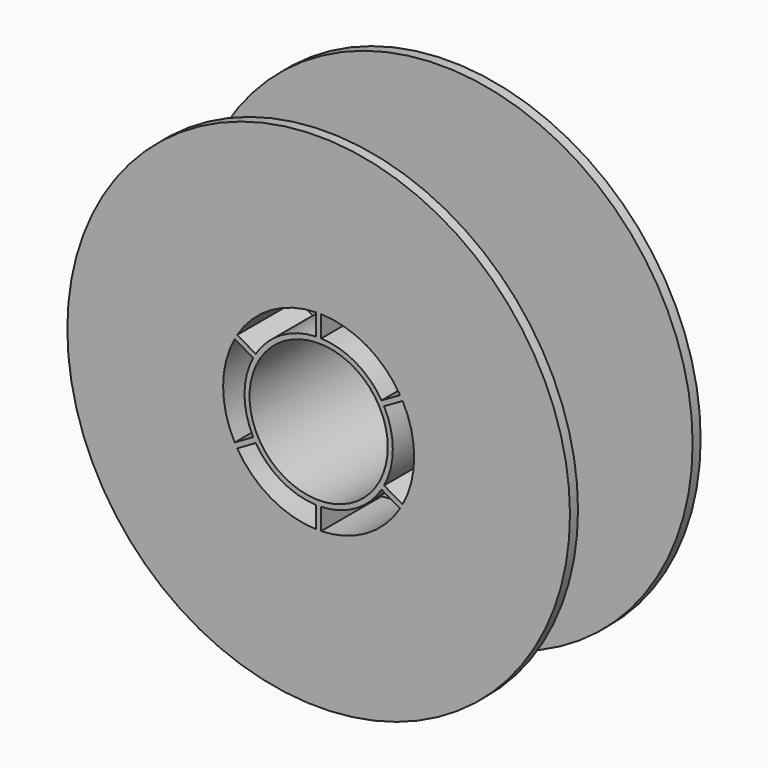
from build123d import *

# Parameters (mm, degrees)
F0_R     = 100
F0_R_2   = 27.5
F1_DEPTH = 4
F2_R     = 40
F2_R_2   = 27.5
F3_DEPTH = 57
F4_R     = 100
F4_R_2   = 27.5
F5_DEPTH = 4
F7_DEPTH = 30
F9_DEPTH = 30


with BuildPart() as f1:
    # F0 (on Front) → F1 (new body)
    with BuildSketch(Plane.XZ):
        Circle(F0_R)
        Circle(F0_R_2, mode=Mode.SUBTRACT)
    extrude(amount=F1_DEPTH)

    # F2 (on face) → F3 (join)
    with BuildSketch(Plane.XZ.offset(4)):
        Circle(F2_R)
        Circle(F2_R_2, mode=Mode.SUBTRACT)
    extrude(amount=F3_DEPTH)

    # F4 (on face) → F5 (join)
    with BuildSketch(Plane.XZ.offset(61)):
        Circle(F4_R)
        Circle(F4_R_2, mode=Mode.SUBTRACT)
    extrude(amount=F5_DEPTH)

    # F6 (on face) → F7 (cut)
    with BuildSketch(Plane(origin=(0, 0, 0), x_dir=(-1, 0, 0), z_dir=(0, 1, 0))):
        with BuildLine():
            ThreePointArc((32.408965, 19.866025), (19.006578, 32.920358), (1, 38))
            Line((1, 38), (1, 29.483046))
            ThreePointArc((1, 29.483046), (14.75, 25.547749), (25.033067, 15.607548))
            Line((25.033067, 15.607548), (32.408965, 19.866025))
        make_face()
        with BuildLine():
            ThreePointArc((-25.033067, 15.607548), (-14.75, 25.547749), (-1, 29.483046))
            Line((-1, 29.483046), (-1, 38))
            ThreePointArc((-1, 38), (-19.006578, 32.920358), (-32.408965, 19.866025))
            Line((-32.408965, 19.866025), (-25.033067, 15.607548))
        make_face()
        with BuildLine():
            ThreePointArc((-26.033067, -13.875498), (-29.5, 0), (-26.033067, 13.875498))
            Line((-26.033067, 13.875498), (-33.408965, 18.133975))
            ThreePointArc((-33.408965, 18.133975), (-38.013156, 0), (-33.408965, -18.133975))
            Line((-33.408965, -18.133975), (-26.033067, -13.875498))
        make_face()
        with BuildLine():
            ThreePointArc((-1, -29.483046), (-14.75, -25.547749), (-25.033067, -15.607548))
            Line((-25.033067, -15.607548), (-32.408965, -19.866025))
            ThreePointArc((-32.408965, -19.866025), (-19.006578, -32.920358), (-1, -38))
            Line((-1, -38), (-1, -29.483046))
        make_face()
        with BuildLine():
            ThreePointArc((25.033067, -15.607548), (14.75, -25.547749), (1, -29.483046))
            Line((1, -29.483046), (1, -38))
            ThreePointArc((1, -38), (19.006578, -32.920358), (32.408965, -19.866025))
            Line((32.408965, -19.866025), (25.033067, -15.607548))
        make_face()
        with BuildLine():
            ThreePointArc((26.033067, 13.875498), (29.5, 0), (26.033067, -13.875498))
            Line((26.033067, -13.875498), (33.408965, -18.133975))
            ThreePointArc((33.408965, -18.133975), (38.013156, 0), (33.408965, 18.133975))
            Line((33.408965, 18.133975), (26.033067, 13.875498))
        make_face()
    extrude(amount=-F7_DEPTH, mode=Mode.SUBTRACT)

    # F8 (on face) → F9 (cut)
    with BuildSketch(Plane.XZ.offset(65)):
        with BuildLine():
            ThreePointArc((32.408965, 19.866025), (19.006578, 32.920358), (1, 38))
            Line((1, 38), (1, 29.483046))
            ThreePointArc((1, 29.483046), (14.75, 25.547749), (25.033067, 15.607548))
            Line((25.033067, 15.607548), (32.408965, 19.866025))
        make_face()
        with BuildLine():
            Line((-32.408965, 19.866025), (-25.033067, 15.607548))
            ThreePointArc((-25.033067, 15.607548), (-14.75, 25.547749), (-1, 29.483046))
            Line((-1, 29.483046), (-1, 38))
            ThreePointArc((-1, 38), (-19.006578, 32.920358), (-32.408965, 19.866025))
        make_face()
        with BuildLine():
            Line((-33.408965, -18.133975), (-26.033067, -13.875498))
            ThreePointArc((-26.033067, -13.875498), (-29.5, 0), (-26.033067, 13.875498))
            Line((-26.033067, 13.875498), (-33.408965, 18.133975))
            ThreePointArc((-33.408965, 18.133975), (-38.013156, 0), (-33.408965, -18.133975))
        make_face()
        with BuildLine():
            Line((-1, -38), (-1, -29.483046))
            ThreePointArc((-1, -29.483046), (-14.75, -25.547749), (-25.033067, -15.607548))
            Line((-25.033067, -15.607548), (-32.408965, -19.866025))
            ThreePointArc((-32.408965, -19.866025), (-19.006578, -32.920358), (-1, -38))
        make_face()
        with BuildLine():
            Line((32.408965, -19.866025), (25.033067, -15.607548))
            ThreePointArc((25.033067, -15.607548), (14.75, -25.547749), (1, -29.483046))
            Line((1, -29.483046), (1, -38))
            ThreePointArc((1, -38), (19.006578, -32.920358), (32.408965, -19.866025))
        make_face()
        with BuildLine():
            Line((33.408965, 18.133975), (26.033067, 13.875498))
            ThreePointArc((26.033067, 13.875498), (29.5, 0), (26.033067, -13.875498))
            Line((26.033067, -13.875498), (33.408965, -18.133975))
            ThreePointArc((33.408965, -18.133975), (38.013156, 0), (33.408965, 18.133975))
        make_face()
    extrude(amount=-F9_DEPTH, mode=Mode.SUBTRACT)


solid = f1.part
